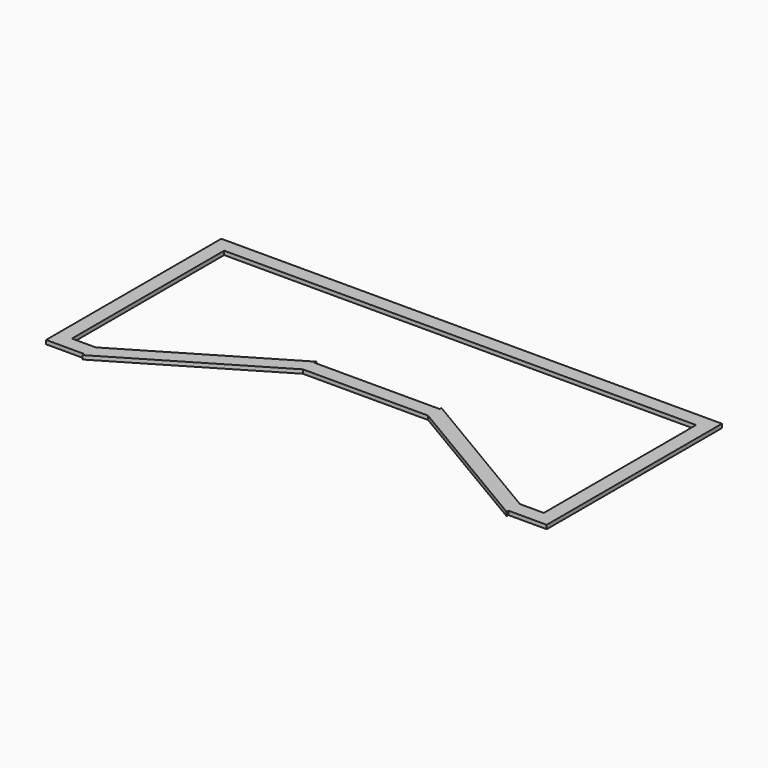
from build123d import *

# Parameters (mm, degrees)
F0_W     = 5.5
F0_H     = 73
F0_W_2   = 48
F0_H_2   = 5.5
F1_DEPTH = 1.5


with BuildPart() as f1:
    # F0 (on Top) → F1 (new body)
    with BuildSketch(Plane.XY):
        with Locations((-93.25, 15.449619)):
            Rectangle(F0_W, F0_H)
        Polygon((0, 57.449619), (-96, 57.449619), (-96, 51.949619), (-90.5, 51.949619), (0, 51.949619), align=None)
        Polygon((96, 57.449619), (0, 57.449619), (0, 51.949619), (90.5, 51.949619), (96, 51.949619), align=None)
        with Locations((93.25, 15.449619)):
            Rectangle(F0_W, F0_H)
        Polygon((96, -21.050381), (90.5, -21.050381), (81.325, -21.050381), (81.325, -26.550381), (96, -26.550381), align=None)
        Polygon((81.325, -26.550381), (81.325, -21.050381), (24, 12.970261), (24, 12.074619), (24, 6.574619), (81.325, -27.446023), align=None)
        with Locations((0, 9.324619)):
            Rectangle(F0_W_2, F0_H_2)
        Polygon((-24, 12.970261), (-81.325, -21.050381), (-81.325, -26.550381), (-81.325, -27.446023), (-24, 6.574619), (-24, 12.074619), align=None)
        Polygon((-90.5, -21.050381), (-96, -21.050381), (-96, -26.550381), (-81.325, -26.550381), (-81.325, -21.050381), align=None)
    extrude(amount=F1_DEPTH)


solid = f1.part
